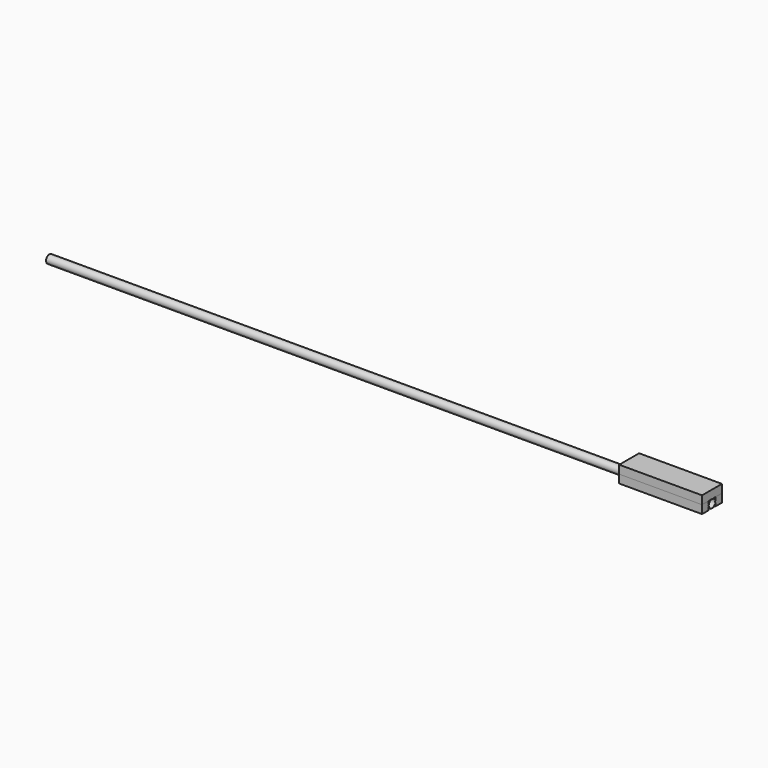
from build123d import *

# Parameters (mm, degrees)
F0_W     = 1000
F0_H     = 100
F1_DEPTH = 100
F2_R     = 49
F3_DEPTH = 8000
F6_DEPTH = 1000


with BuildPart() as f1:
    # F0 (on Top) → F1 (new body)
    with BuildSketch(Plane.XY):
        with Locations((415.801843, -1.197719)):
            Rectangle(F0_W, F0_H)
    extrude(amount=F1_DEPTH)


with BuildPart() as f3:
    # F2 (on face) → F3 (new body)
    with BuildSketch(Plane.YZ.offset(915.801843)):
        with BuildLine():
            ThreePointArc((48.802281, 50), (98.802281, 0), (148.802281, 50))
            ThreePointArc((148.802281, 50), (98.802281, 100), (48.802281, 50))
        make_face()
        with Locations((98.802281, 50)):
            Circle(F2_R, mode=Mode.SUBTRACT)
    extrude(amount=-F3_DEPTH)


with BuildPart() as f4_1:
    # F4: copy of F1
    add(f1.part.moved(Location((0, 200, 0))))


with BuildPart() as f6:
    # F5 (on face) → F6 (new body)
    with BuildSketch(Plane.YZ.offset(915.801843)):
        Polygon((-51.197719, 200), (-51.197719, 100), (48.802281, 100), (248.802281, 100), (248.802281, 200), align=None)
    extrude(amount=-F6_DEPTH)


solid = Compound([f1.part, f3.part, f4_1.part, f6.part])
